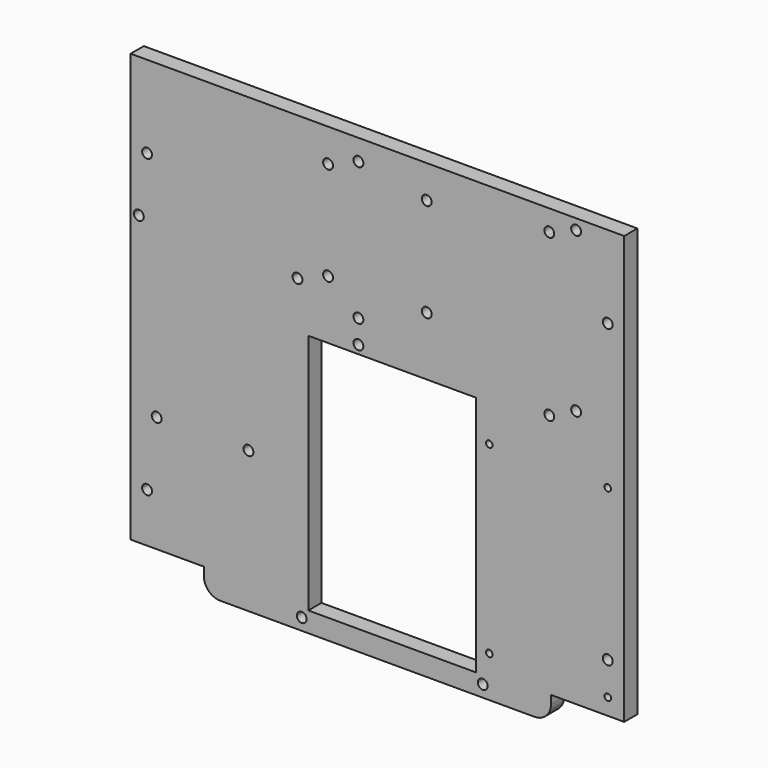
from build123d import *

# Parameters (mm, degrees)
F0_W     = 105.5
F0_H     = 7.5
F1_DEPTH = 5
F3_DEPTH = 25
F4_W     = 25.1
F4_H     = 73.5
F4_W_2   = 25.9
F5_DEPTH = 25
F6_R     = 5


with BuildPart() as f1:
    # F0 (on Front) → F1 (new body)
    with BuildSketch(Plane.XZ):
        with BuildLine():
            ThreePointArc((149.692112, 105), (147.131451, 106.06066), (148.192112, 103.5))
            ThreePointArc((148.192112, 103.5), (149.252772, 103.93934), (149.692112, 105))
        make_face()
        with BuildLine():
            ThreePointArc((9.692112, 105), (7.131451, 106.06066), (8.192112, 103.5))
            ThreePointArc((8.192112, 103.5), (9.252772, 103.93934), (9.692112, 105))
        make_face()
        Polygon((3.192112, 15), (3.192112, 0), (25.442112, 0), (130.942112, 0), (153.192112, 0), (153.192112, 15), (153.192112, 130), (3.192112, 130), align=None)
        with BuildLine():
            ThreePointArc((9.692112, 15), (8.192112, 13.5), (6.692112, 15))
            ThreePointArc((6.692112, 15), (7.131451, 16.06066), (8.192112, 16.5))
            ThreePointArc((8.192112, 16.5), (9.252772, 16.06066), (9.692112, 15))
        make_face(mode=Mode.SUBTRACT)
        with BuildLine():
            ThreePointArc((148.192112, 16.5), (149.252772, 16.06066), (149.692112, 15))
            ThreePointArc((149.692112, 15), (147.131451, 13.93934), (148.192112, 16.5))
        make_face(mode=Mode.SUBTRACT)
        with BuildLine():
            ThreePointArc((9.692112, 105), (9.252772, 103.93934), (8.192112, 103.5))
            ThreePointArc((8.192112, 103.5), (7.131451, 106.06066), (9.692112, 105))
        make_face(mode=Mode.SUBTRACT)
        with BuildLine():
            ThreePointArc((149.692112, 105), (149.252772, 103.93934), (148.192112, 103.5))
            ThreePointArc((148.192112, 103.5), (147.131451, 106.06066), (149.692112, 105))
        make_face(mode=Mode.SUBTRACT)
        with Locations((78.192112, -3.75)):
            Rectangle(F0_W, F0_H)
    extrude(amount=F1_DEPTH)

    # F2 (on face) → F3 (cut)
    with BuildSketch(Plane.XZ.offset(5)):
        with BuildLine():
            ThreePointArc((7.192112, 87.6), (5.692112, 89.1), (4.192112, 87.6))
            Line((4.192112, 87.6), (5.692112, 87.6))
            Line((5.692112, 87.6), (5.692112, 86.3))
            Line((5.692112, 86.3), (6.440443, 86.3))
            ThreePointArc((6.440443, 86.3), (6.990668, 86.849166), (7.192112, 87.6))
        make_face()
        with BuildLine():
            ThreePointArc((12.60054, 35.331822), (12.600533, 35.336368), (12.600512, 35.340914))
            ThreePointArc((12.600512, 35.340914), (9.600547, 35.327276), (12.60054, 35.331822))
        make_face()
        with BuildLine():
            ThreePointArc((40.500027, 35.500933), (40.50002, 35.505479), (40.5, 35.510025))
            Line((40.5, 35.510025), (39.000027, 35.500933))
            Line((39.000027, 35.500933), (37.500055, 35.491841))
            ThreePointArc((37.500055, 35.491841), (39.004573, 34.00094), (40.500027, 35.500933))
        make_face()
        with BuildLine():
            Line((39.000027, 35.500933), (40.5, 35.510025))
            ThreePointArc((40.5, 35.510025), (38.990935, 37.000906), (37.500055, 35.491841))
            Line((37.500055, 35.491841), (39.000027, 35.500933))
        make_face()
        with BuildLine():
            ThreePointArc((55.391832, 86.392132), (53.887286, 87.892125), (52.39186, 86.38304))
            Line((52.39186, 86.38304), (53.891832, 86.392132))
            Line((53.891832, 86.392132), (53.900924, 84.89216))
            ThreePointArc((53.900924, 84.89216), (54.955702, 85.334691), (55.391832, 86.392132))
        make_face()
        with BuildLine():
            Line((53.891832, 86.392132), (52.39186, 86.38304))
            ThreePointArc((52.39186, 86.38304), (52.837621, 85.325063), (53.900924, 84.89216))
            Line((53.900924, 84.89216), (53.891832, 86.392132))
        make_face()
        with BuildLine():
            Line((5.692112, 87.6), (4.192112, 87.6))
            ThreePointArc((4.192112, 87.6), (4.941278, 86.301444), (6.440443, 86.3))
            Line((6.440443, 86.3), (5.692112, 86.3))
            Line((5.692112, 86.3), (5.692112, 87.6))
        make_face()
        with BuildLine():
            ThreePointArc((147.192112, 5), (148.192112, 4), (149.192112, 5))
            Line((149.192112, 5), (148.192112, 5))
            Line((148.192112, 5), (147.192112, 5))
        make_face()
        with BuildLine():
            Line((148.192112, 5), (149.192112, 5))
            ThreePointArc((149.192112, 5), (148.192112, 6), (147.192112, 5))
            Line((147.192112, 5), (148.192112, 5))
        make_face()
        with BuildLine():
            ThreePointArc((149.192112, 61), (148.192112, 62), (147.192112, 61))
            ThreePointArc((147.192112, 61), (148.192112, 60), (149.192112, 61))
        make_face()
        with BuildLine():
            ThreePointArc((113.192112, 61), (111.485005, 61.707107), (112.192112, 60))
            Line((112.192112, 60), (112.192112, 61))
            Line((112.192112, 61), (113.192112, 61))
        make_face()
        with BuildLine():
            Line((112.192112, 61), (112.192112, 60))
            ThreePointArc((112.192112, 60), (112.899218, 60.292893), (113.192112, 61))
            Line((113.192112, 61), (112.192112, 61))
        make_face()
        with BuildLine():
            ThreePointArc((112.192112, 6), (111.485005, 4.292893), (113.192112, 5))
            Line((113.192112, 5), (112.192112, 5))
            Line((112.192112, 5), (112.192112, 6))
        make_face()
        with BuildLine():
            Line((112.192112, 5), (113.192112, 5))
            ThreePointArc((113.192112, 5), (112.899218, 5.707107), (112.192112, 6))
            Line((112.192112, 6), (112.192112, 5))
        make_face()
        with BuildLine():
            ThreePointArc((140.082112, 78.43), (139.642772, 79.49066), (138.582112, 79.93))
            ThreePointArc((138.582112, 79.93), (137.521451, 77.36934), (140.082112, 78.43))
        make_face()
        with BuildLine():
            ThreePointArc((140.082112, 126.82), (139.642772, 127.88066), (138.582112, 128.32))
            Line((138.582112, 128.32), (138.582112, 126.82))
            Line((138.582112, 126.82), (138.582112, 125.32))
            ThreePointArc((138.582112, 125.32), (139.642772, 125.75934), (140.082112, 126.82))
        make_face()
        with BuildLine():
            Line((138.582112, 126.82), (138.582112, 128.32))
            ThreePointArc((138.582112, 128.32), (137.082112, 126.82), (138.582112, 125.32))
            Line((138.582112, 125.32), (138.582112, 126.82))
        make_face()
        with BuildLine():
            ThreePointArc((64.692112, 90), (64.252772, 91.06066), (63.192112, 91.5))
            ThreePointArc((63.192112, 91.5), (62.131451, 88.93934), (64.692112, 90))
        make_face()
        with BuildLine():
            ThreePointArc((64.692112, 120), (62.131451, 121.06066), (63.192112, 118.5))
            ThreePointArc((63.192112, 118.5), (64.252772, 118.93934), (64.692112, 120))
        make_face()
        with BuildLine():
            ThreePointArc((72.422112, 125.15), (70.922112, 123.65), (72.422112, 122.15))
            Line((72.422112, 122.15), (72.422112, 123.65))
            Line((72.422112, 123.65), (72.422112, 125.15))
        make_face()
        with BuildLine():
            Line((72.422112, 123.65), (72.422112, 122.15))
            ThreePointArc((72.422112, 122.15), (73.482772, 122.58934), (73.922112, 123.65))
            ThreePointArc((73.922112, 123.65), (73.482772, 124.71066), (72.422112, 125.15))
            Line((72.422112, 125.15), (72.422112, 123.65))
        make_face()
        with BuildLine():
            ThreePointArc((72.422112, 83.24), (70.922112, 81.74), (72.422112, 80.24))
            Line((72.422112, 80.24), (72.422112, 81.74))
            Line((72.422112, 81.74), (72.422112, 83.24))
        make_face()
        with BuildLine():
            Line((72.422112, 81.74), (72.422112, 80.24))
            ThreePointArc((72.422112, 80.24), (73.482772, 80.67934), (73.922112, 81.74))
            ThreePointArc((73.922112, 81.74), (73.482772, 82.80066), (72.422112, 83.24))
            Line((72.422112, 83.24), (72.422112, 81.74))
        make_face()
        with BuildLine():
            ThreePointArc((72.422112, 76.15), (71.361451, 73.58934), (73.922112, 74.65))
            Line((73.922112, 74.65), (72.422112, 74.65))
            Line((72.422112, 74.65), (72.422112, 76.15))
        make_face()
        with BuildLine():
            Line((72.422112, 74.65), (73.922112, 74.65))
            ThreePointArc((73.922112, 74.65), (73.482772, 75.71066), (72.422112, 76.15))
            Line((72.422112, 76.15), (72.422112, 74.65))
        make_face()
        with BuildLine():
            ThreePointArc((131.922112, 74.65), (131.482772, 75.71066), (130.422112, 76.15))
            Line((130.422112, 76.15), (130.422112, 74.65))
            Line((130.422112, 74.65), (128.922112, 74.65))
            ThreePointArc((128.922112, 74.65), (130.422112, 73.15), (131.922112, 74.65))
        make_face()
        with BuildLine():
            Line((130.422112, 74.65), (130.422112, 76.15))
            ThreePointArc((130.422112, 76.15), (129.361451, 75.71066), (128.922112, 74.65))
            Line((128.922112, 74.65), (130.422112, 74.65))
        make_face()
        with BuildLine():
            ThreePointArc((131.922112, 123.65), (131.182046, 124.943252), (129.692112, 124.960382))
            Line((129.692112, 124.960382), (129.692112, 122.339618))
            ThreePointArc((129.692112, 122.339618), (130.044999, 122.198178), (130.422112, 122.15))
            ThreePointArc((130.422112, 122.15), (131.482772, 122.58934), (131.922112, 123.65))
        make_face()
        with BuildLine():
            Line((129.692112, 122.339618), (129.692112, 124.960382))
            ThreePointArc((129.692112, 124.960382), (128.922112, 123.65), (129.692112, 122.339618))
        make_face()
        with BuildLine():
            ThreePointArc((93.192112, 91.5), (92.131451, 88.93934), (94.692112, 90))
            ThreePointArc((94.692112, 90), (94.252772, 91.06066), (93.192112, 91.5))
        make_face()
        with BuildLine():
            ThreePointArc((93.192112, 121.5), (91.692112, 120), (93.192112, 118.5))
            Line((93.192112, 118.5), (93.192112, 120))
            Line((93.192112, 120), (93.192112, 121.5))
        make_face()
        with BuildLine():
            Line((93.192112, 120), (93.192112, 118.5))
            ThreePointArc((93.192112, 118.5), (94.252772, 118.93934), (94.692112, 120))
            ThreePointArc((94.692112, 120), (94.252772, 121.06066), (93.192112, 121.5))
            Line((93.192112, 121.5), (93.192112, 120))
        make_face()
    extrude(amount=-F3_DEPTH, mode=Mode.SUBTRACT)

    # F4 (on face) → F5 (cut)
    with BuildSketch(Plane(origin=(0, 0, 0), x_dir=(-1, 0, 0), z_dir=(0, 1, 0))):
        with Locations((-95.642112, 35.35)):
            Rectangle(F4_W, F4_H)
        with Locations((-70.142112, 35.35)):
            Rectangle(F4_W_2, F4_H)
        with BuildLine():
            ThreePointArc((-108.692112, -3.9), (-109.131451, -2.83934), (-110.192112, -2.4))
            ThreePointArc((-110.192112, -2.4), (-111.252772, -4.96066), (-108.692112, -3.9))
        make_face()
        with BuildLine():
            ThreePointArc((-53.692112, -3.9), (-54.131451, -2.83934), (-55.192112, -2.4))
            ThreePointArc((-55.192112, -2.4), (-56.252772, -4.96066), (-53.692112, -3.9))
        make_face()
    extrude(amount=-F5_DEPTH, mode=Mode.SUBTRACT)

    # F6
    f6_edges = [f1.edges().sort_by_distance(p)[0] for p in [
        (130.942112, -2.5, -7.5),
        (25.442112, -2.5, -7.5),
    ]]
    fillet(f6_edges, radius=F6_R)


solid = f1.part
